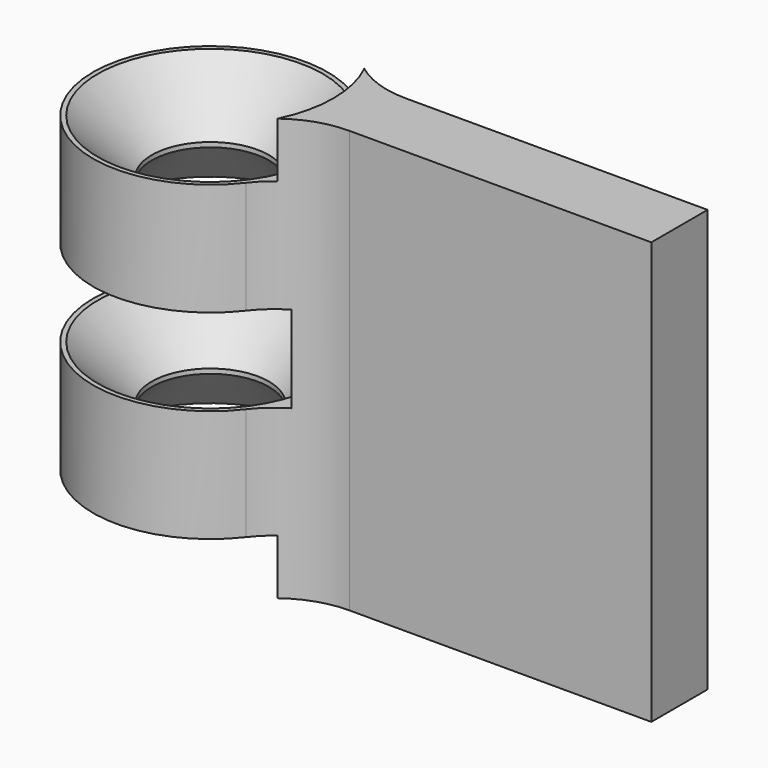
from build123d import *

# Parameters (mm, degrees)
SKETCH006_R     = 2.5
PAD002_DEPTH    = 9
SKETCH007_R     = 5.5
POCKET001_DEPTH = 1.85
SKETCH008_R     = 5.25
POCKET002_DEPTH = 67.1275389628
CHAMFER001_SIZE = 2.3


with BuildPart() as part:
    # Sketch006 → Pad002 (new body, symmetric)
    with BuildSketch(Plane.XY):
        with BuildLine():
            Line((20, -1.5), (20, 1.5))
            Line((20, 1.5), (7.1239047452, 1.5))
            ThreePointArc((3.9577107596, 3.0555728668), (5.3600599952, 1.9098946593), (7.1239047452, 1.5))
            ThreePointArc((3.9577107595, 3.0555728668), (-5, -2.4792e-06), (3.9577137897, -3.055568942))
            ThreePointArc((7.1239047446, -1.5), (5.3600622201, -1.9098935662), (3.9577137897, -3.055568942))
            Line((7.1239047446, -1.5), (20, -1.5))
        make_face()
        Circle(SKETCH006_R, mode=Mode.SUBTRACT)
    extrude(amount=PAD002_DEPTH, both=True)

    # Sketch007 → Pocket001 (cut, symmetric)
    with BuildSketch(Plane.XY):
        Circle(SKETCH007_R)
    extrude(amount=POCKET001_DEPTH, both=True, mode=Mode.SUBTRACT)

    # Sketch008 → Pocket002 (cut, through all)
    with BuildSketch(Plane.XY.offset(6.65)):
        Circle(SKETCH008_R)
    pocket002 = extrude(amount=POCKET002_DEPTH, mode=Mode.SUBTRACT)

    # Mirrored001: Pocket002 across XY
    add(pocket002.mirror(Plane.XY), mode=Mode.SUBTRACT)

    # Chamfer001
    chamfer001_edges = [part.edges().sort_by_distance(p)[0] for p in [
        (-2.5, 0, -6.65),
        (-2.5, 0, -1.85),
        (-2.5, 0, 6.65),
        (-2.5, 0, 1.85),
    ]]
    chamfer(chamfer001_edges, length=CHAMFER001_SIZE)


solid = part.part
